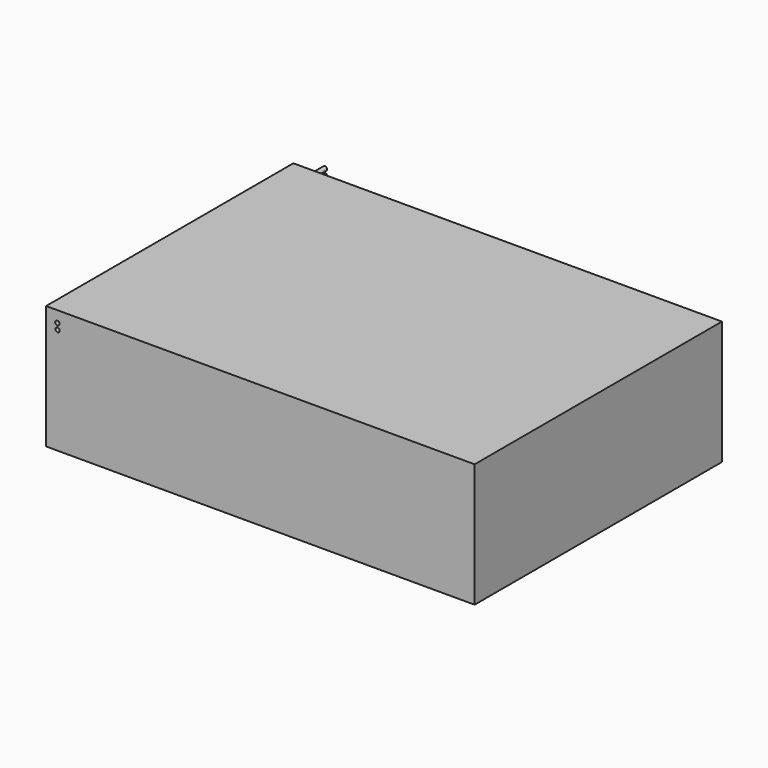
from build123d import *

# Parameters (mm, degrees)
F0_W     = 50.6
F0_H     = 14.6
F0_R     = 0.25
F1_DEPTH = 36.5
F2_DEPTH = 3


with BuildPart() as f1:
    # F0 (on Front) → F1 (new body)
    with BuildSketch(Plane.XZ):
        Rectangle(F0_W, F0_H)
        with Locations((-23.940524, 5.262874)):
            Circle(F0_R, mode=Mode.SUBTRACT)
        with Locations((-23.971662, 5.968016)):
            Circle(F0_R, mode=Mode.SUBTRACT)
    extrude(amount=F1_DEPTH)


with BuildPart() as f2:
    # F0 (on Front) → F2 (new body)
    with BuildSketch(Plane.XZ):
        with Locations((-23.971662, 5.968016)):
            Circle(F0_R)
        with Locations((-23.940524, 5.262874)):
            Circle(F0_R)
    extrude(amount=-F2_DEPTH)


solid = Compound([f1.part, f2.part])
